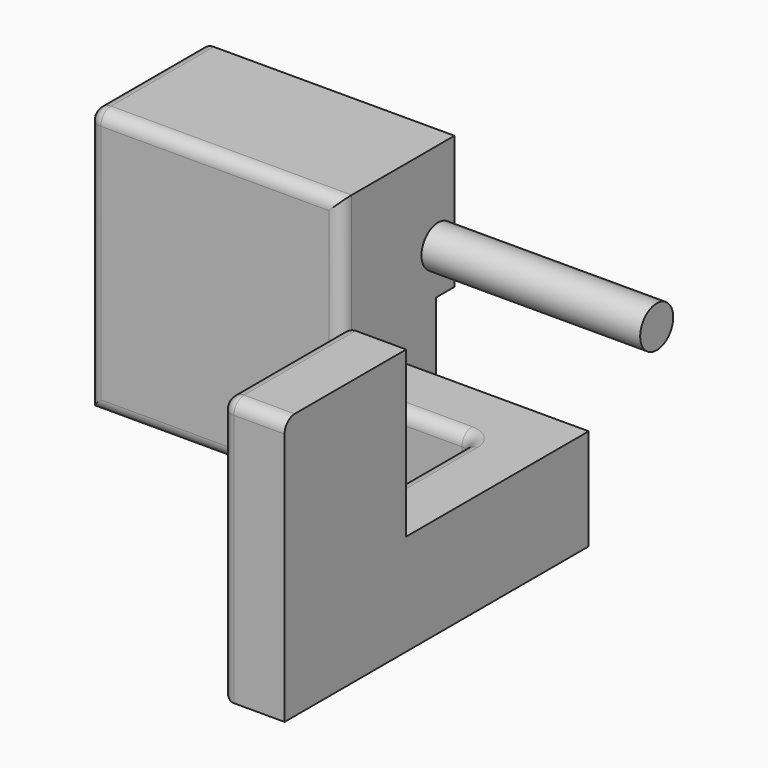
from build123d import *

# Parameters (mm, degrees)
F1_DEPTH = 26.67
F2_W     = 13.335
F2_H     = 6.35
F3_DEPTH = 16.51
F4_W     = 25.4
F4_H     = 13.3375799713
F5_DEPTH = 2.3241
F6_R     = 2.0701
F7_DEPTH = 21.9202
F8_R     = 1.27


with BuildPart() as f1:
    # F0 (on Top) → F1 (new body)
    with BuildSketch(Plane.XY):
        Polygon((19.685, 1.4401404459), (13.335, 1.4401404459), (13.335, -3.6108427172), (13.335, -4.9098595541), (13.335, -36.6598595541), (19.685, -36.6598595541), align=None)
        Polygon((13.335, -3.6108427172), (13.335, 1.4401404459), (0, 1.4401404459), (0, -4.9098595541), (13.335, -4.9098595541), align=None)
        Polygon((0, -4.9098595541), (0, 1.4401404459), (0, 6.9011404459), (-25.4, 6.9011404459), (-25.4, -4.9098595541), align=None)
    extrude(amount=F1_DEPTH)

    # F2 (on face) → F3 (cut)
    with BuildSketch(Plane.XY.offset(26.67)):
        with Locations((6.6675, -1.7348595541)):
            Rectangle(F2_W, F2_H)
        Polygon((19.685, 1.4401404459), (13.335, 1.4401404459), (13.335, -4.9098595541), (13.335, -21.4198595541), (19.685, -21.4198595541), align=None)
    extrude(amount=-F3_DEPTH, mode=Mode.SUBTRACT)

    # F4 (on face) → F5 (join)
    with BuildSketch(Plane(origin=(0, 6.9011404459, 0), x_dir=(-1, 0, 0), z_dir=(0, 1, 0))):
        with Locations((12.7, 20.0012100144)):
            Rectangle(F4_W, F4_H)
    extrude(amount=F5_DEPTH)

    # F6 (on face) → F7 (join, through all)
    with BuildSketch(Plane.YZ):
        with Locations((7.1678404459, 17.78)):
            Circle(F6_R)
    extrude(amount=F7_DEPTH)

    # F8
    f8_edges = [f1.edges().sort_by_distance(p)[0] for p in [
        (-6.0325, -4.90986, 0),
        (13.335, -4.90986, 5.08),
        (6.6675, -4.90986, 10.16),
        (0, -4.90986, 18.415),
        (-12.7, -4.90986, 26.67),
        (-25.4, -4.90986, 13.335),
        (13.335, -20.78486, 0),
        (13.335, -36.65986, 13.335),
        (13.335, -29.03986, 26.67),
        (13.335, -21.41986, 18.415),
        (13.335, -13.16486, 10.16),
        (-25.4, 2.15769, 26.67),
        (16.51, -36.65986, 26.67),
    ]]
    fillet(f8_edges, radius=F8_R)


solid = f1.part
